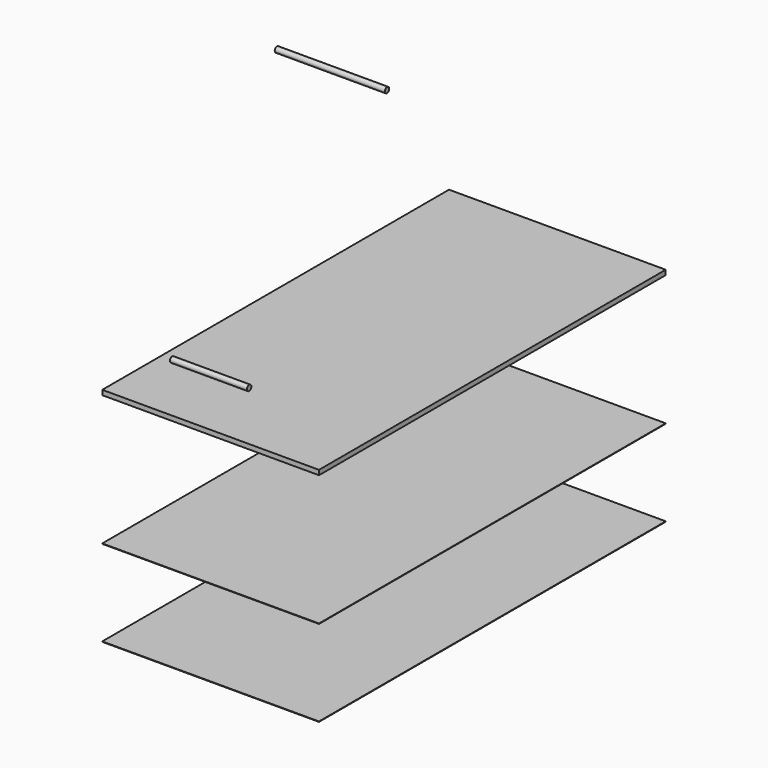
from build123d import *

# Parameters (mm, degrees)
F0_R     = 6.35
F1_DEPTH = 88.9
F2_W     = 1000
F2_H     = 11
F2_H_2   = 1
F3_DEPTH = 250
F4_R     = 6.35
F5_DEPTH = 127


with BuildPart() as f1:
    # F0 (on Right) → F1 (new body, symmetric)
    with BuildSketch(Plane.YZ):
        Circle(F0_R)
    extrude(amount=F1_DEPTH, both=True)


with BuildPart() as f3:
    # F2 (on Right) → F3 (new body, symmetric)
    with BuildSketch(Plane.YZ):
        with Locations((500, -119.5)):
            Rectangle(F2_W, F2_H)
        with Locations((500, -426.5)):
            Rectangle(F2_W, F2_H_2)
        with Locations((500, -625.5)):
            Rectangle(F2_W, F2_H_2)
    extrude(amount=F3_DEPTH, both=True)


with BuildPart() as f5:
    # F4 (on Right) → F5 (new body, symmetric)
    with BuildSketch(Plane.YZ):
        with Locations((350, 475)):
            Circle(F4_R)
    extrude(amount=F5_DEPTH, both=True)


solid = Compound([f1.part, f3.part, f5.part])
